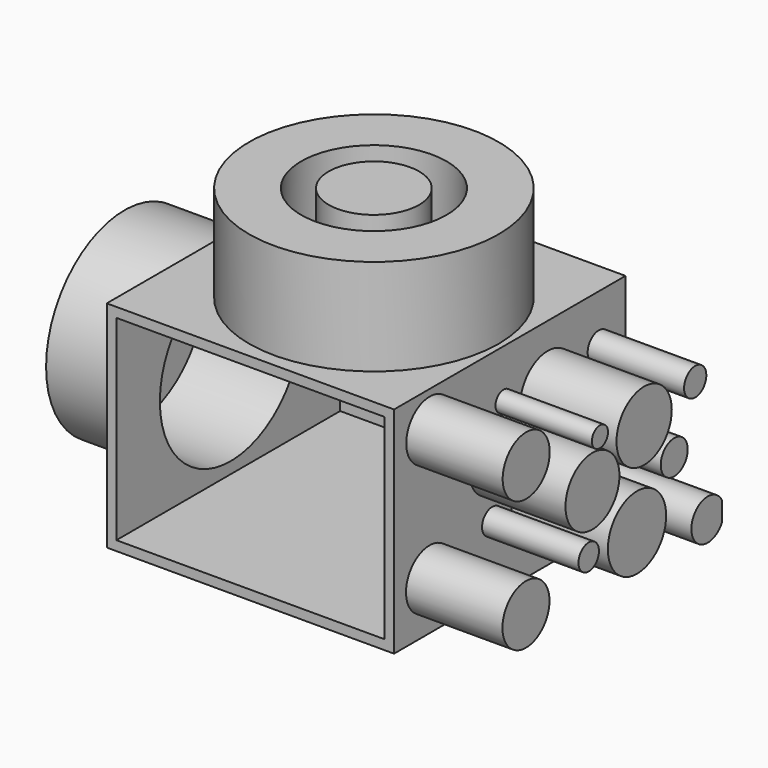
from build123d import *

# Parameters (mm, degrees)
F0_W     = 75.6683796644
F0_H     = 56.6312596202
F1_DEPTH = 76.2
F2_R     = 32.8805478482
F2_R_2   = 27.3422805509
F2_R_3   = 19.1504254532
F2_R_4   = 11.9146478849
F3_DEPTH = 25.4
F4_R     = 25.8365396263
F4_R_2   = 16.7772933898
F4_R_3   = 9.0542222029
F5_DEPTH = 25.4
F6_T     = -2.54
F7_R     = 3.661512341
F7_R_2   = 9.1001332581
F7_R_3   = 2.6513181401
F7_R_4   = 8.8835137034
F7_R_5   = 3.3715323173
F7_R_6   = 9.593089253
F7_R_7   = 4.4394708986
F7_R_8   = 7.7443328278
F7_R_9   = 7.7443291059
F8_DEPTH = 25.4


with BuildPart() as f1:
    # F0 (on Front) → F1 (new body)
    with BuildSketch(Plane.XZ):
        with Locations((37.8341898322, 28.3156298101)):
            Rectangle(F0_W, F0_H)
    extrude(amount=F1_DEPTH)

    # F2 (on face) → F3 (join)
    with BuildSketch(Plane.XY.offset(56.6312596202)):
        with Locations((41.328176856, -39.9102717638)):
            Circle(F2_R)
        with Locations((41.328176856, -39.9102717638)):
            Circle(F2_R_2, mode=Mode.SUBTRACT)
        with Locations((41.328176856, -39.9102717638)):
            Circle(F2_R_2)
        with Locations((41.328176856, -39.9102717638)):
            Circle(F2_R_3, mode=Mode.SUBTRACT)
        with Locations((41.328176856, -39.9102717638)):
            Circle(F2_R_4)
    extrude(amount=F3_DEPTH)

    # F4 (on face) → F5 (join)
    with BuildSketch(Plane(origin=(0, 0, 0), x_dir=(0, -1, 0), z_dir=(-1, 0, 0))):
        with Locations((38.5897643864, 28.854271397)):
            Circle(F4_R)
        with Locations((38.5897643864, 28.854271397)):
            Circle(F4_R_2, mode=Mode.SUBTRACT)
        with Locations((38.5897643864, 28.854271397)):
            Circle(F4_R_2)
        with Locations((38.5897643864, 28.854271397)):
            Circle(F4_R_3, mode=Mode.SUBTRACT)
        with Locations((38.5897643864, 28.854271397)):
            Circle(F4_R_3)
    extrude(amount=F5_DEPTH)

    # F6
    f6_openings = [f1.faces().sort_by_distance(p)[0] for p in [
        (37.83419, -76.2, 28.31563),
    ]]
    offset(amount=F6_T, openings=f6_openings, kind=Kind.INTERSECTION)

    # F7 (on face) → F8 (join)
    with BuildSketch(Plane.YZ.offset(75.6683796644)):
        with Locations((-8.7984241545, 43.9281985164)):
            Circle(F7_R)
        with Locations((-25.612493977, 40.552649647)):
            Circle(F7_R_2)
        with Locations((-40.1582121849, 43.9281985164)):
            Circle(F7_R_3)
        with Locations((-42.6249019802, 32.3069766164)):
            Circle(F7_R_4)
        with Locations((-43.8523180783, 17.5502598286)):
            Circle(F7_R_5)
        with Locations((-27.9581807554, 16.7665481567)):
            Circle(F7_R_6)
        with Locations((-15.7014150172, 29.2281731963)):
            Circle(F7_R_7)
        with BuildLine():
            Line((0, 7.6459474177), (0, 12.9123390406))
            ThreePointArc((0, 12.9123390406), (-10.0560886873, 10.2791432291), (0, 7.6459474177))
        make_face()
        with Locations((-64.4422322512, 47.1135601401)):
            Circle(F7_R_8)
        with Locations((-64.5220428705, 12.6286838204)):
            Circle(F7_R_9)
    extrude(amount=F8_DEPTH)


solid = f1.part
